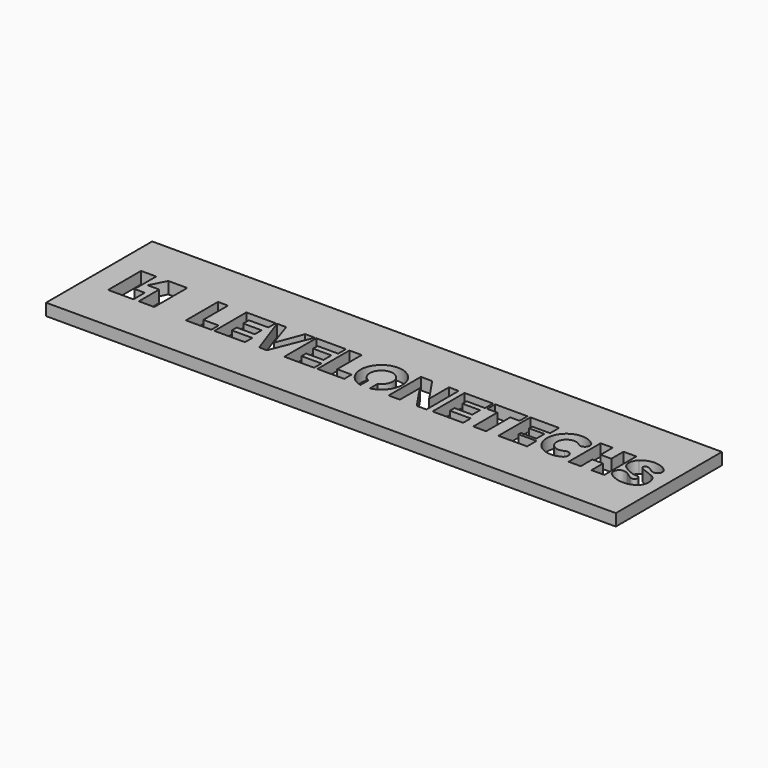
from build123d import *

# Parameters (mm, degrees)
F0_W     = 240
F0_H     = 55.88
F1_DEPTH = 5


with BuildPart() as f1:
    # F0 (on Top) → F1 (new body)
    with BuildSketch(Plane.XY):
        with Locations((-1.303092, 10.622495)):
            Rectangle(F0_W, F0_H)
        Polygon((-77.501602, 1.566828), (-77.501602, 18.42894), (-73.263034, 18.42894), (-73.263034, 5.436821), (-66.813052, 5.436821), (-66.813052, 1.566828), align=None, mode=Mode.SUBTRACT)
        Polygon((-65.523051, 1.566828), (-65.523051, 18.42894), (-53.171746, 18.42894), (-53.171746, 14.558948), (-61.376628, 14.558948), (-61.376628, 11.610381), (-53.63664, 11.610381), (-53.63664, 8.016816), (-61.284486, 8.016816), (-61.284486, 5.436821), (-52.623071, 5.436821), (-52.623071, 1.566828), align=None, mode=Mode.SUBTRACT)
        Polygon((-46.633799, 1.566828), (-52.623071, 18.42894), (-48.753079, 18.42894), (-44.975229, 7.187532), (-40.736664, 18.42894), (-36.682386, 18.42894), (-43.408804, 1.566828), align=None, mode=Mode.SUBTRACT)
        Polygon((-36.069706, 1.566828), (-36.069706, 18.42894), (-23.595029, 18.42894), (-23.595029, 14.341751), (-32.273065, 14.341751), (-32.273065, 11.978536), (-24.56356, 11.978536), (-24.56356, 7.833225), (-31.885654, 7.833225), (-31.885654, 5.436821), (-23.517547, 5.436821), (-23.517547, 1.566828), align=None, mode=Mode.SUBTRACT)
        Polygon((-22.122035, 1.566828), (-22.122035, 18.42894), (-16.931558, 18.42894), (-16.931558, 5.461609), (-10.812703, 5.461609), (-10.812703, 1.566828), align=None, mode=Mode.SUBTRACT)
        with BuildLine():
            Line((0, 1.486314), (0, 5.613023))
            ThreePointArc((0, 5.613023), (-1.939251, 14.918573), (-3.923162, 5.622442))
            Line((-3.923162, 5.622442), (-3.923162, 1.491197))
            ThreePointArc((-3.923162, 1.491197), (-1.939969, 18.855408), (0, 1.486314))
        make_face(mode=Mode.SUBTRACT)
        Polygon((12.757826, 1.425337), (7.98934, 1.425337), (7.98934, 18.42894), (12.757826, 18.42894), (19.847259, 7.966181), (19.847259, 18.42894), (23.944732, 18.348456), (23.944732, 1.425337), (19.847259, 1.425337), (12.757826, 11.888096), align=None, mode=Mode.SUBTRACT)
        Polygon((26.369521, 1.566828), (26.369521, 18.42894), (38.351353, 18.42894), (38.351353, 14.247308), (30.56819, 14.247308), (30.56819, 12.04724), (38.016446, 12.04724), (38.016446, 7.966181), (30.505024, 7.966181), (30.505024, 5.552883), (39.282415, 5.552883), (39.282415, 1.566828), align=None, mode=Mode.SUBTRACT)
        Polygon((39.282415, 14.247308), (39.282415, 18.42894), (52.912835, 18.42894), (52.912835, 14.247308), (48.958834, 14.247308), (48.958834, 1.566828), (43.528017, 1.566828), (43.528017, 14.247308), align=None, mode=Mode.SUBTRACT)
        Polygon((54.121282, 1.566828), (54.121282, 18.42894), (66.235885, 18.42894), (66.235885, 13.642738), (58.677584, 13.642738), (58.677584, 12.04724), (65.13413, 12.04724), (65.13413, 7.809057), (58.656581, 7.809057), (58.656581, 6.543087), (66.210203, 6.543087), (66.210203, 1.566828), align=None, mode=Mode.SUBTRACT)
        with BuildLine():
            ThreePointArc((81.330004, 16.427406), (81.502994, 13.470076), (78.545664, 13.297086))
            ThreePointArc((78.545664, 13.297086), (71.801666, 10.696378), (77.833893, 6.714239))
            ThreePointArc((77.833893, 6.714239), (80.685897, 5.913115), (79.884773, 3.061112))
            ThreePointArc((79.884773, 3.061112), (67.636498, 11.146737), (81.330004, 16.427406))
        make_face(mode=Mode.SUBTRACT)
        Polygon((83.697356, 1.566828), (83.697356, 18.42894), (88.816062, 18.42894), (88.816062, 12.015753), (93.332559, 12.015753), (93.332559, 18.42894), (98.752365, 18.42894), (98.752365, 1.566828), (93.332559, 1.566828), (93.332559, 7.699986), (88.816062, 7.699986), (88.816062, 1.566828), align=None, mode=Mode.SUBTRACT)
        with BuildLine():
            add(Edge.make_bspline(
                [(101.193711, 16.731108), (99.303506, 15.238125), (99.056959, 11.800154), (101.193711, 10.197595)],
                knots=[0, 0, 0, 0, 6.533513, 6.533513, 6.533513, 6.533513], degree=3))
            add(Edge.make_bspline(
                [(101.193711, 16.731108), (103.618093, 19.223979), (108.672321, 19.539012), (111.685678, 16.67632)],
                knots=[0, 0, 0, 0, 10.49211, 10.49211, 10.49211, 10.49211], degree=3))
            add(Edge.make_bspline(
                [(111.685678, 16.67632), (113.683753, 14.726316), (111.273028, 11.843219), (108.797148, 13.618685)],
                knots=[0, 0, 0, 0, 4.206274, 4.206274, 4.206274, 4.206274], degree=3))
            add(Edge.make_bspline(
                [(108.797148, 13.618685), (107.428901, 14.775181), (105.71859, 15.345286), (105.311371, 14.465697)],
                knots=[0, 0, 0, 0, 3.587209, 3.587209, 3.587209, 3.587209], degree=3))
            add(Edge.make_bspline(
                [(105.311371, 14.465697), (104.073435, 12.592498), (108.808008, 12.174423), (110.556327, 11.028785)],
                knots=[0, 0, 0, 0, 6.270719, 6.270719, 6.270719, 6.270719], degree=3))
            add(Edge.make_bspline(
                [(112.592414, 3.617435), (113.781482, 5.115994), (114.253856, 9.823423), (110.556327, 11.028785)],
                knots=[0, 0, 0, 0, 7.685946, 7.685946, 7.685946, 7.685946], degree=3))
            add(Edge.make_bspline(
                [(100.31075, 3.552281), (104.203738, 0.392276), (110.035092, 0.441142), (112.592414, 3.617435)],
                knots=[0, 0, 0, 0, 12.281837, 12.281837, 12.281837, 12.281837], degree=3))
            add(Edge.make_bspline(
                [(100.31075, 3.552281), (98.51899, 5.230014), (99.903531, 8.911257), (103.47075, 7.51043)],
                knots=[0, 0, 0, 0, 5.064834, 5.064834, 5.064834, 5.064834], degree=3))
            Line((103.47075, 7.51043), (106.353849, 5.588366))
            add(Edge.make_bspline(
                [(107.494056, 7.787338), (110.067666, 7.738471), (108.634263, 4.122384), (106.353849, 5.588366)],
                knots=[0, 0, 0, 0, 2.477004, 2.477004, 2.477004, 2.477004], degree=3))
            add(Edge.make_bspline(
                [(101.193711, 10.197595), (103.193842, 8.732081), (105.327658, 7.803626), (107.494056, 7.787338)],
                knots=[0, 0, 0, 0, 6.745642, 6.745642, 6.745642, 6.745642], degree=3))
        make_face(mode=Mode.SUBTRACT)
        Polygon((-111.039914, 2.497631), (-111.039914, 19.864045), (-104.65432, 19.864045), (-104.65432, 8.465471), (-100.35748, 8.465471), (-100.35748, 2.497631), align=None, mode=Mode.SUBTRACT)
        Polygon((-91.584757, 19.864045), (-91.584757, 2.497631), (-98.089702, 2.497631), (-98.089702, 13.239743), (-102.923647, 13.239743), (-99.581659, 19.864045), align=None, mode=Mode.SUBTRACT)
    extrude(amount=F1_DEPTH)


solid = f1.part
